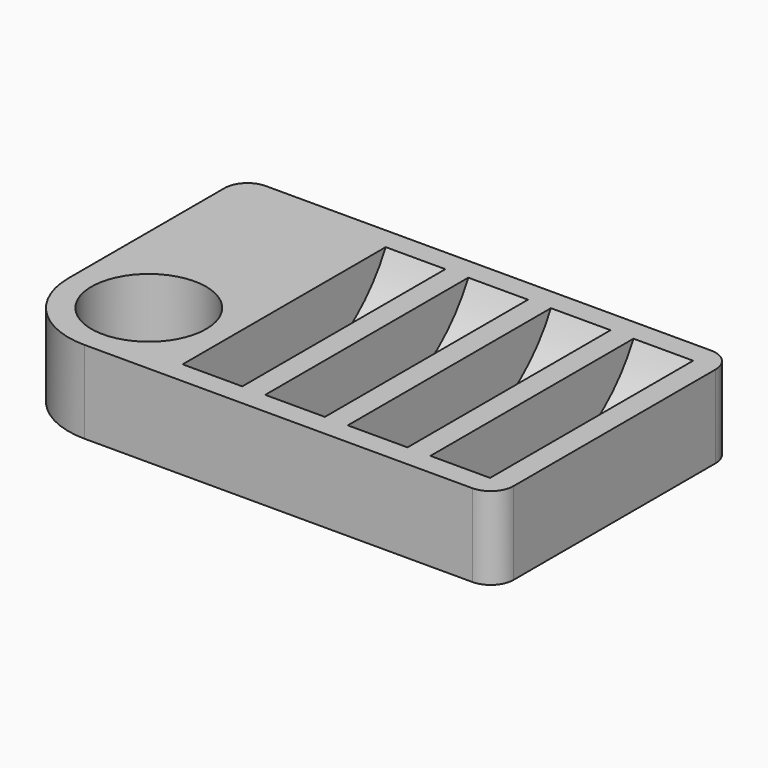
from build123d import *

# Parameters (mm, degrees)
F0_R     = 12.5
F1_DEPTH = 32
F2_W     = 13
F2_H     = 31
F4_W     = 108.9288368821
F4_H     = 18.1096374691
F5_DEPTH = 65.001


with BuildPart() as f1:
    # F0 (on Top) → F1 (new body)
    with BuildSketch(Plane.XY):
        with BuildLine():
            ThreePointArc((0, 17.5), (5.1256313292, 5.1256313292), (17.5, 0))
            Line((17.5, 0), (102, 0))
            ThreePointArc((102, 0), (105.5355339059, 1.4644660941), (107, 5))
            Line((107, 5), (107, 60))
            ThreePointArc((107, 60), (105.5355339059, 63.5355339059), (102, 65))
            Line((102, 65), (5, 65))
            ThreePointArc((5, 65), (1.4644660941, 63.5355339059), (0, 60))
            Line((0, 60), (0, 17.5))
        make_face()
        with Locations((17.5, 17.5)):
            Circle(F0_R, mode=Mode.SUBTRACT)
    extrude(amount=F1_DEPTH)

    # F2 (on face) → F3 (revolve, cut)
    with BuildSketch(Plane.XY.offset(32)):
        with Locations((41.5, 17)):
            Rectangle(F2_W, F2_H)
        with Locations((59.5, 17)):
            Rectangle(F2_W, F2_H)
        with Locations((77.5, 17)):
            Rectangle(F2_W, F2_H)
        with Locations((95.5, 17)):
            Rectangle(F2_W, F2_H)
    revolve(axis=Axis((41.5, 32.5, 32), (1, 0, 0)), mode=Mode.SUBTRACT)

    # F4 (on face) → F5 (cut, through all)
    with BuildSketch(Plane.XZ):
        with Locations((54.4644184411, 27.0548187345)):
            Rectangle(F4_W, F4_H)
    extrude(amount=-F5_DEPTH, mode=Mode.SUBTRACT)


solid = f1.part
